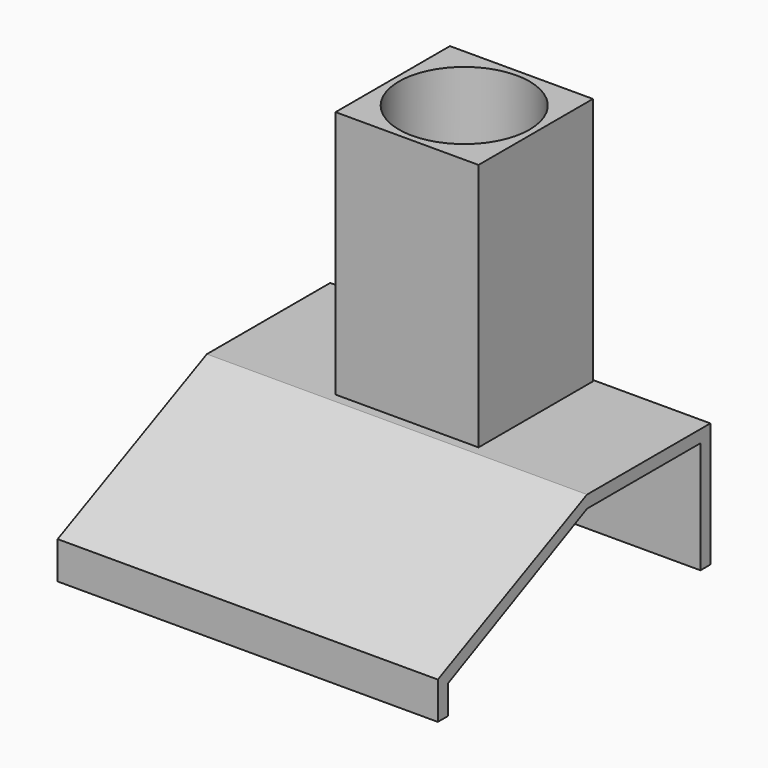
from build123d import *

# Parameters (mm, degrees)
SKETCH004_W     = 61.15
SKETCH004_H     = 54.8
PAD001_DEPTH    = 20
POCKET003_DEPTH = 61.151
SKETCH006_R     = 3.34
SKETCH006_W     = 16.51
SKETCH006_H     = 11
POCKET004_DEPTH = 5
SKETCH007_R     = 3.34
SKETCH007_W     = 15.2570581741
SKETCH007_H     = 10.1100032783
POCKET005_DEPTH = 17
SKETCH008_W     = 23
SKETCH008_H     = 23
SKETCH008_R     = 10.5
PAD002_DEPTH    = 40
POCKET006_DEPTH = 61.151
PAD004_DEPTH    = 2


with BuildPart() as part:
    # Sketch004 → Pad001 (new body)
    with BuildSketch(Plane.XY):
        with Locations((4.8749828339, -3.3899418259)):
            Rectangle(SKETCH004_W, SKETCH004_H)
    extrude(amount=PAD001_DEPTH)

    # Sketch005 (on Face2 of Pad001) → Pocket003 (cut, through all)
    with BuildSketch(Plane.YZ.offset(35.4499828339)):
        Polygon((-30.7899418259, 20), (-0.7899418259, 20), (-30.7899418259, 6), align=None)
    extrude(amount=-POCKET003_DEPTH, mode=Mode.SUBTRACT)

    # Sketch006 (on Face3 of Pocket003) → Pocket004 (cut)
    with BuildSketch(Plane.YZ.offset(35.4499828339)):
        with Locations((-8.7709418259, -0.3499967217)):
            Circle(SKETCH006_R)
        with Locations((-21.8049418259, 0.1500032783)):
            Circle(SKETCH006_R)
        with Locations((6.7920581741, 4.6100032783)):
            Rectangle(SKETCH006_W, SKETCH006_H)
    extrude(amount=-POCKET004_DEPTH, mode=Mode.SUBTRACT)

    # Sketch007 (on Face2 of Pocket004) → Pocket005 (cut)
    with BuildSketch(Plane(origin=(-25.7000171661, 0, 0), x_dir=(0, -1, 0), z_dir=(-1, 0, 0))):
        with Locations((21.8049418259, -0.8499967217)):
            Circle(SKETCH007_R)
        with Locations((-7.6285290871, 5.0550016391)):
            Rectangle(SKETCH007_W, SKETCH007_H)
    extrude(amount=-POCKET005_DEPTH, mode=Mode.SUBTRACT)

    # Sketch008 (on Face5 of Pocket005) → Pad002 (join)
    with BuildSketch(Plane.XY.offset(20)):
        with Locations((5.2999828339, 12.2100581741)):
            Rectangle(SKETCH008_W, SKETCH008_H)
        with Locations((5.2999828339, 12.2100581741)):
            Circle(SKETCH008_R, mode=Mode.SUBTRACT)
    extrude(amount=PAD002_DEPTH)

    # Sketch010 (on Face3 of Pocket005) → Pocket006 (cut, through all)
    with BuildSketch(Plane.YZ.offset(35.4499828339)):
        Polygon((-28.7899418259, 0), (-28.7899418259, 4.6), (-0.7899418259, 18), (22.0100581741, 18), (22.0100581741, 0), align=None)
    extrude(amount=-POCKET006_DEPTH, mode=Mode.SUBTRACT)

    # Sketch011 (on Face2 of Pocket006) → Pad004 (join)
    with BuildSketch(Plane(origin=(-25.7000171661, 0, 0), x_dir=(0, -1, 0), z_dir=(-1, 0, 0))):
        with BuildLine():
            Line((-22.0100581741, 0), (-22.0100581741, 18))
            Line((-22.0100581741, 18), (0.7899418259, 18))
            Line((0.7899418259, 18), (28.7899418259, 4.6))
            Line((28.7899418259, 4.6), (28.7899418259, 0))
            Line((24.8049418259, 0), (28.7899418259, 0))
            ThreePointArc((24.8049418259, 0), (21.8049418259, 2.2680947501), (18.8049418259, 0))
            Line((1.4629418259, 0), (18.8049418259, 0))
            Line((1.4629418259, 10.1100032783), (1.4629418259, 0))
            Line((-15.2570581741, 10.1100032783), (1.4629418259, 10.1100032783))
            Line((-15.2570581741, 0), (-15.2570581741, 10.1100032783))
            Line((-22.0100581741, 0), (-15.2570581741, 0))
        make_face()
    extrude(amount=-PAD004_DEPTH)


with BuildPart() as part_1:
    # Body001 placement: moved
    add(part.part.moved(Location((0, 0, 10))))


solid = part_1.part
